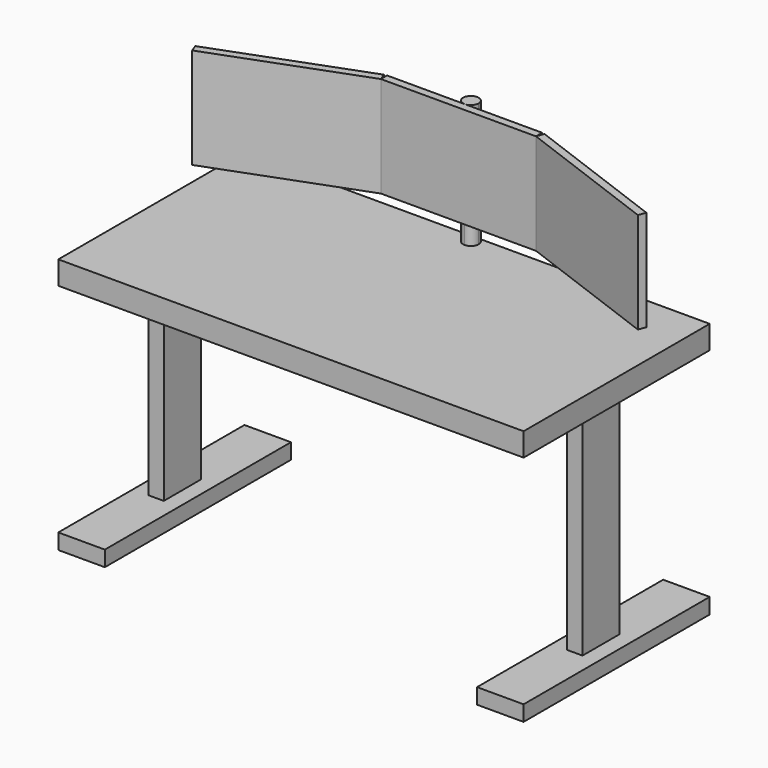
from build123d import *

# Parameters (mm, degrees)
F0_W          = 1524
F0_H          = 762
F1_DEPTH      = 76.2
F2_W          = 50.8
F2_H          = 152.4
F3_DEPTH      = 711.2
F4_W          = 152.4
F4_H          = 50.8
F5_DEPTH      = 762
F8_DEPTH      = 76.2
F8_DEPTH_BACK = 330.2
F9_DEPTH      = 330.2


with BuildPart() as f1:
    # F0 (on Top) → F1 (new body)
    with BuildSketch(Plane.XY):
        with Locations((762, -381)):
            Rectangle(F0_W, F0_H)
    extrude(amount=F1_DEPTH)

    # F2 (on Top) → F3 (join)
    with BuildSketch(Plane.XY):
        with Locations((76.2, -381)):
            Rectangle(F2_W, F2_H)
        with Locations((1447.8, -381)):
            Rectangle(F2_W, F2_H)
    extrude(amount=-F3_DEPTH)

    # F4 (on Front) → F5 (join)
    with BuildSketch(Plane.XZ):
        with Locations((1447.8, -736.6)):
            Rectangle(F4_W, F4_H)
        with Locations((76.2, -736.6)):
            Rectangle(F4_W, F4_H)
    extrude(amount=F5_DEPTH)

    # F7 (on offset) → F8 (join, two sides)
    with BuildSketch(Plane.XY.offset(152.4)) as f8_sk:
        with BuildLine():
            ThreePointArc((787.4, -25.4), (744.0394877579, -7.4394877579), (762, -50.8))
            ThreePointArc((762, -50.8), (779.9605122421, -43.3605122421), (787.4, -25.4))
        make_face()
    extrude(amount=-F8_DEPTH)
    extrude(f8_sk.sketch, amount=F8_DEPTH_BACK)


with BuildPart() as f9:
    # F7 (on offset) → F9 (new body)
    with BuildSketch(Plane.XY.offset(152.4)):
        Polygon((499.11, -52.4065576261), (23.241152522, -230.2065576261), (32.131152522, -254), (508, -76.2), align=None)
    extrude(amount=F9_DEPTH)


with BuildPart() as f9b:
    # F7 (on offset) → F9, piece 2 (new body)
    with BuildSketch(Plane.XY.offset(152.4)):
        Polygon((508, -50.8), (508, -76.2), (1016, -76.2), (1016, -50.8), (762, -50.8), align=None)
    extrude(amount=F9_DEPTH)


with BuildPart() as f9c:
    # F7 (on offset) → F9, piece 3 (new body)
    with BuildSketch(Plane.XY.offset(152.4)):
        Polygon((1024.89, -52.4065576261), (1016, -76.2), (1491.868847478, -254), (1500.758847478, -230.2065576261), align=None)
    extrude(amount=F9_DEPTH)


solid = Compound([f1.part, f9.part, f9b.part, f9c.part])
